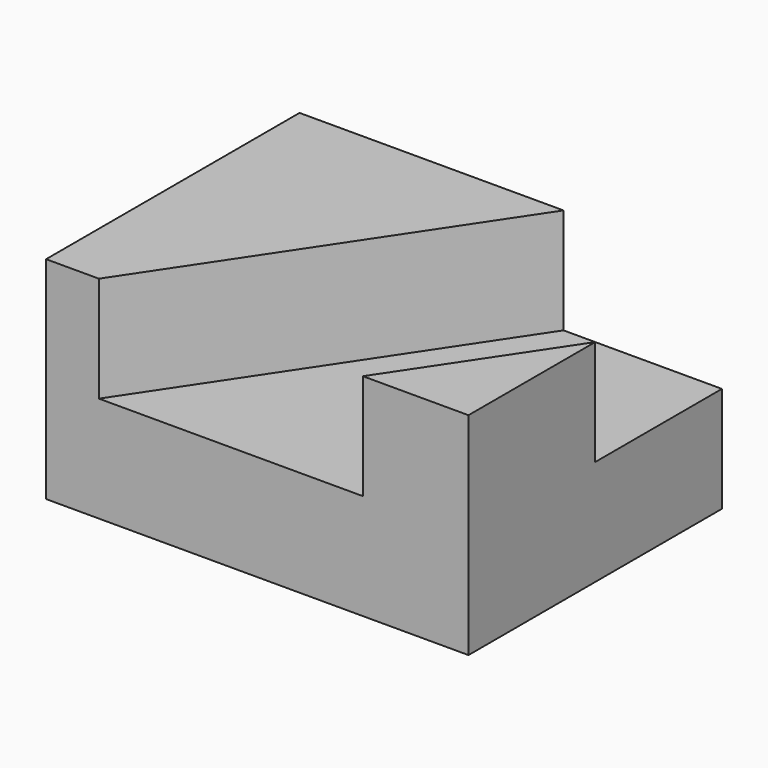
from build123d import *

# Parameters (mm, degrees)
F0_W     = 50.8
F0_H     = 25.4
F1_DEPTH = 38.1
F2_W     = 19.05
F2_H     = 12.7
F3_DEPTH = 19.05
F5_DEPTH = 12.7


with BuildPart() as f1:
    # F0 (on Front) → F1 (new body)
    with BuildSketch(Plane.XZ):
        with Locations((-39.091442, 33.651494)):
            Rectangle(F0_W, F0_H)
    extrude(amount=F1_DEPTH)

    # F2 (on face) → F3 (cut)
    with BuildSketch(Plane(origin=(0, 0, 0), x_dir=(-1, 0, 0), z_dir=(0, 1, 0))):
        with Locations((23.216442, 40.001494)):
            Rectangle(F2_W, F2_H)
    extrude(amount=-F3_DEPTH, mode=Mode.SUBTRACT)

    # F4 (on face) → F5 (cut)
    with BuildSketch(Plane.XY.offset(46.351494)):
        Polygon((-32.741442, -19.05), (-32.741442, 0), (-58.141442, -38.1), (-26.391442, -38.1), (-13.691442, -19.05), align=None)
    extrude(amount=-F5_DEPTH, mode=Mode.SUBTRACT)


solid = f1.part
